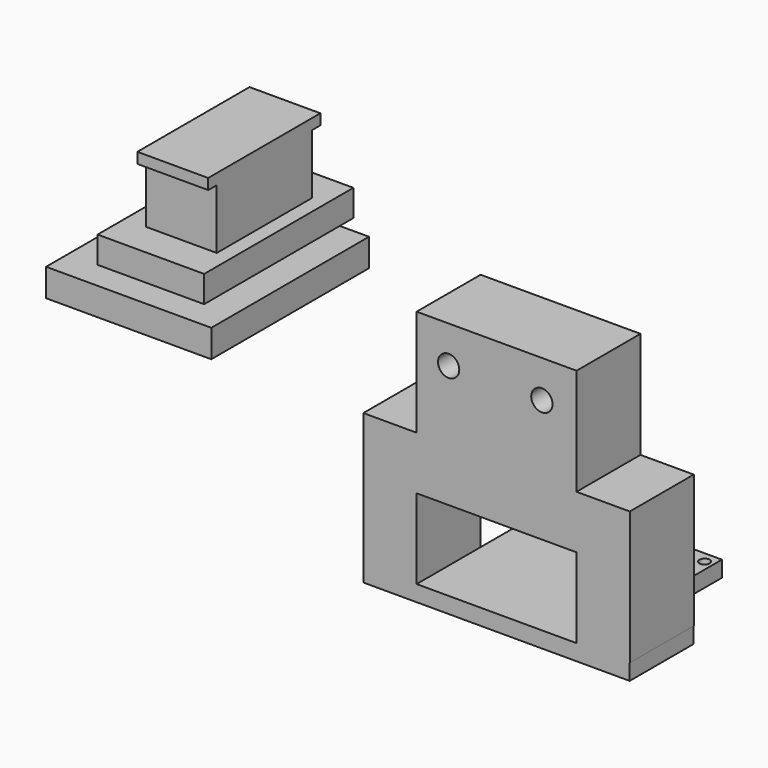
from build123d import *

# Parameters (mm, degrees)
F0_W      = 30
F0_H      = 30
F0_R      = 2
F1_DEPTH  = 15
F2_W      = 15
F2_H      = 25
F3_DEPTH  = 10
F4_W      = 15
F4_H      = 25
F5_DEPTH  = 10
F6_W      = 30.0859
F6_H      = 19
F6_R      = 0.986103
F6_R_2    = 0.959485
F7_DEPTH  = 3
F8_W      = 31
F8_H      = 37
F8_R      = 1.65
F9_DEPTH  = 3
F10_W     = 20
F10_H     = 35
F10_W_2   = 13.3
F10_H_2   = 22.3
F10_R     = 1.65
F11_DEPTH = 5
F12_DEPTH = 18.2
F13_W     = 13.3
F13_H     = 2
F14_DEPTH = 2
F15_W     = 13.3
F15_H     = 2
F16_DEPTH = 2
F9_FACE_W = 31
F9_FACE_H = 37
F9_FACE_R = 1.65
F17_DEPTH = 2.2


with BuildPart() as f1:
    # F0 (on Front) → F1 (new body)
    with BuildSketch(Plane.XZ):
        with Locations((-3.326248, -3.76721)):
            Rectangle(F0_W, F0_H)
        with Locations((-12.326248, 4.23279)):
            Circle(F0_R, mode=Mode.SUBTRACT)
        with Locations((5.173752, 4.23279)):
            Circle(F0_R, mode=Mode.SUBTRACT)
    extrude(amount=F1_DEPTH)

    # F2 (on face) → F3 (join)
    with BuildSketch(Plane(origin=(-18.326248, 0, 0), x_dir=(0, -1, 0), z_dir=(-1, 0, 0))):
        with Locations((7.5, -21.26721)):
            Rectangle(F2_W, F2_H)
    extrude(amount=F3_DEPTH)

    # F4 (on face) → F5 (join)
    with BuildSketch(Plane.YZ.offset(11.673752)):
        with Locations((-7.5, -21.26721)):
            Rectangle(F4_W, F4_H)
    extrude(amount=F5_DEPTH)

    # F6 (on face) → F7 (join)
    with BuildSketch(Plane(origin=(0, 0, -33.76721), x_dir=(1, 0, 0), z_dir=(0, 0, -1))):
        Polygon((21.651177, 15), (-28.326248, 15), (-28.326248, 0), (-18.326248, 0), (11.759652, 0), (21.651177, 0), align=None)
        with Locations((-3.283298, -9.5)):
            Rectangle(F6_W, F6_H)
        with Locations((-16.833282, -16.630637)):
            Circle(F6_R, mode=Mode.SUBTRACT)
        with Locations((10.166718, -16.934052)):
            Circle(F6_R_2, mode=Mode.SUBTRACT)
    extrude(amount=F7_DEPTH)


with BuildPart() as f9:
    # F8 (on Top) → F9 (new body)
    with BuildSketch(Plane.XY):
        with Locations((-64.005674, -6.945877)):
            Rectangle(F8_W, F8_H)
        with Locations((-64.005674, -6.945877)):
            Circle(F8_R, mode=Mode.SUBTRACT)
    extrude(amount=F9_DEPTH)

    # F10 (on face) → F11 (join)
    with BuildSketch(Plane.XY.offset(3)):
        with Locations((-63.998397, -2.753619)):
            Rectangle(F10_W, F10_H)
        with Locations((-63.363247, -2.753619)):
            Rectangle(F10_W_2, F10_H_2, mode=Mode.SUBTRACT)
        with Locations((-63.363247, -2.753619)):
            Rectangle(F10_W_2, F10_H_2)
        with Locations((-64.005674, -6.945877)):
            Circle(F10_R)
    extrude(amount=F11_DEPTH)

    # F10 (on face) → F12 (join)
    with BuildSketch(Plane.XY.offset(3)):
        with Locations((-63.363247, -2.753619)):
            Rectangle(F10_W_2, F10_H_2)
        with Locations((-64.005674, -6.945877)):
            Circle(F10_R, mode=Mode.SUBTRACT)
        with Locations((-64.005674, -6.945877)):
            Circle(F10_R)
    extrude(amount=F12_DEPTH)

    # F13 (on face) → F14 (join)
    with BuildSketch(Plane.XZ.offset(13.903619)):
        with Locations((-63.363247, 20.2)):
            Rectangle(F13_W, F13_H)
    extrude(amount=F14_DEPTH)

    # F15 (on face) → F16 (join)
    with BuildSketch(Plane(origin=(0, 8.396381, 0), x_dir=(-1, 0, 0), z_dir=(0, 1, 0))):
        with Locations((63.363247, 20.2)):
            Rectangle(F15_W, F15_H)
    extrude(amount=F16_DEPTH)

    # F9_face (on face) → F17 (join)
    with BuildSketch(Plane(origin=(-64.005674, -6.945877, 0), x_dir=(1, 0, 0), z_dir=(0, 0, -1))):
        Rectangle(F9_FACE_W, F9_FACE_H)
        Circle(F9_FACE_R, mode=Mode.SUBTRACT)
    extrude(amount=F17_DEPTH)


solid = Compound([f1.part, f9.part])
